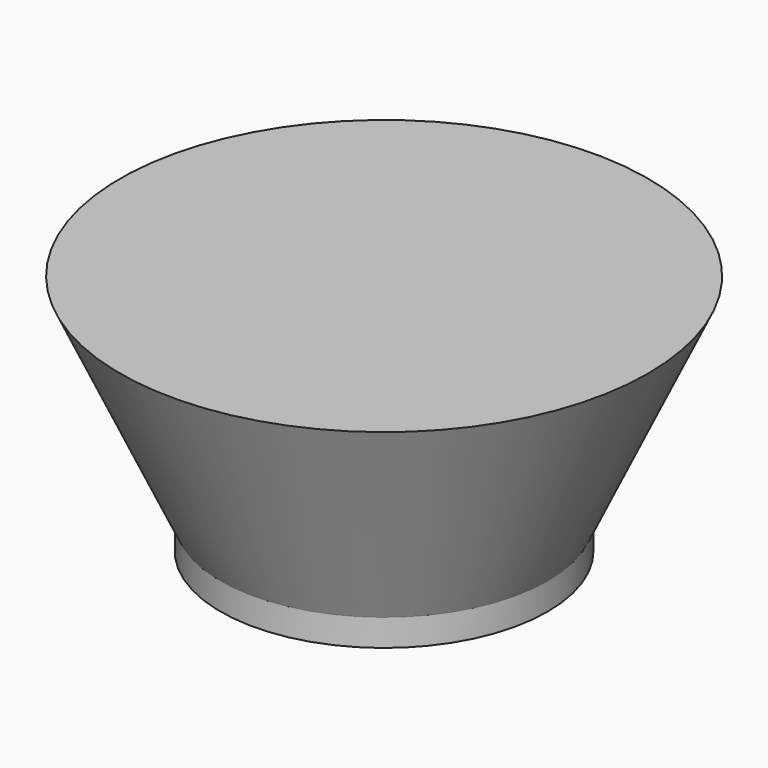
from build123d import *

# Parameters (mm, degrees)
F0_R          = 154.2824036123
F1_DEPTH      = 203.2
F1_TAPER      = -25
F1_DEPTH_BACK = 25.4


with BuildPart() as f1:
    # F0 (on Top) → F1 (new body, two sides)
    with BuildSketch(Plane.XY) as f1_sk:
        Circle(F0_R)
    extrude(amount=F1_DEPTH, taper=F1_TAPER)
    extrude(f1_sk.sketch, amount=-F1_DEPTH_BACK)


solid = f1.part
